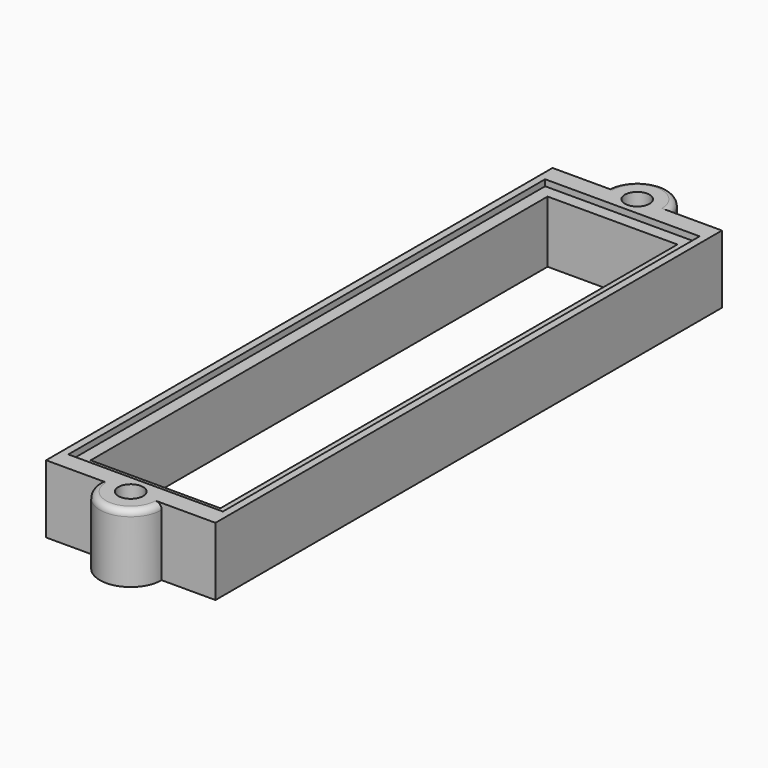
from build123d import *

# Parameters (mm, degrees)
F0_W     = 25
F0_H     = 96.4
F0_W_2   = 21
F0_H_2   = 92.4
F1_DEPTH = 10
F2_DEPTH = 11
F3_D     = 4
F3_DEPTH = 15
F4_R     = 1


with BuildPart() as f1:
    # F0 (on Top) → F1 (new body)
    with BuildSketch(Plane.XY):
        Rectangle(F0_W, F0_H)
        Rectangle(F0_W_2, F0_H_2, mode=Mode.SUBTRACT)
    extrude(amount=F1_DEPTH)

    # F0 (on Top) → F2 (join)
    with BuildSketch(Plane.XY):
        Polygon((-5, 51.2), (-13.7, 51.2), (-13.7, -51.2), (-5, -51.2), (5, -51.2), (13.7, -51.2), (13.7, 51.2), (5, 51.2), align=None)
        Rectangle(F0_W, F0_H, mode=Mode.SUBTRACT)
        with BuildLine():
            Line((5, -51.2), (-5, -51.2))
            ThreePointArc((-5, -51.2), (0, -56.2), (5, -51.2))
        make_face()
        with BuildLine():
            ThreePointArc((5, 51.2), (0, 56.2), (-5, 51.2))
            Line((-5, 51.2), (5, 51.2))
        make_face()
    extrude(amount=F2_DEPTH)

    # F3
    with Locations(Plane(origin=(0, 0, 0), x_dir=(1, 0, 0), z_dir=(0, 0, -1))):
        with Locations((0, 51.2), (0, -51.2)):
            Hole(F3_D / 2, depth=F3_DEPTH)

    # F4
    f4_edges = [f1.edges().sort_by_distance(p)[0] for p in [
        (0, 56.2, 11),
        (0, -56.2, 11),
    ]]
    fillet(f4_edges, radius=F4_R)


solid = f1.part
